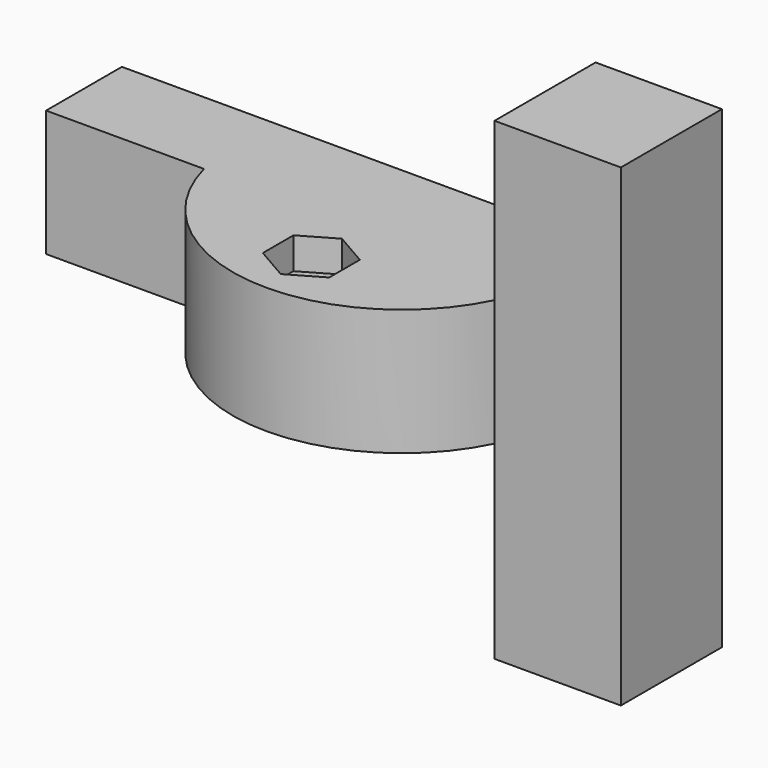
from build123d import *

# Parameters (mm, degrees)
F1_DEPTH = 20
F0_W     = 75
F0_H     = 20
F2_DEPTH = 15
F4_DEPTH = 10
F6_DEPTH = 5
F7_D     = 6.3
F7_DEPTH = 15
F7_TIP   = 1.8927109499


with BuildPart() as f1:
    # F0 (on Front) → F1 (new body)
    with BuildSketch(Plane.XZ):
        Polygon((-25, 35), (-45, 35), (-45, -40), (-25, -40), (-25, -10), (-25, 10), align=None)
    extrude(amount=F1_DEPTH)

    # F0 (on Front) → F2 (join)
    with BuildSketch(Plane.XZ):
        with Locations((12.5, 0)):
            Rectangle(F0_W, F0_H)
    extrude(amount=F2_DEPTH)

    # F3 (on Top) → F4 (join, symmetric)
    with BuildSketch(Plane.XY):
        with BuildLine():
            Line((-25, -15), (-25, -20))
            ThreePointArc((-25, -20), (1.7392618935, -34.8926189355), (25, -15))
            Line((25, -15), (0, -15))
            Line((0, -15), (-25, -15))
        make_face()
    extrude(amount=F4_DEPTH, both=True)

    # F5 (on face) → F6 (cut)
    with BuildSketch(Plane.XY.offset(10)):
        Polygon((5.2573132542, -21.9703298494), (0.009059209, -18.9362188631), (-5.2426850057, -21.9642846986), (-5.2461751751, -28.0264615203), (0.0020788701, -31.0605725067), (5.2538230847, -28.0325066712), align=None)
    extrude(amount=-F6_DEPTH, mode=Mode.SUBTRACT)

    # F7
    with Locations(Plane.XY.offset(10)):
        with Locations((0.0055690395, -24.9983956849)):
            Hole(F7_D / 2, depth=F7_DEPTH)
            with Locations((0, 0, -(F7_DEPTH + F7_TIP / 2))):  # 118° drill point
                Cone(0, F7_D / 2, F7_TIP, mode=Mode.SUBTRACT)


with BuildPart() as f8_1:
    # F8: instance of F1
    add(f1.part.mirror(Plane(origin=(50, -7.5, 0), x_dir=(0, 1, 0), z_dir=(1, 0, 0))))


solid = f8_1.part
